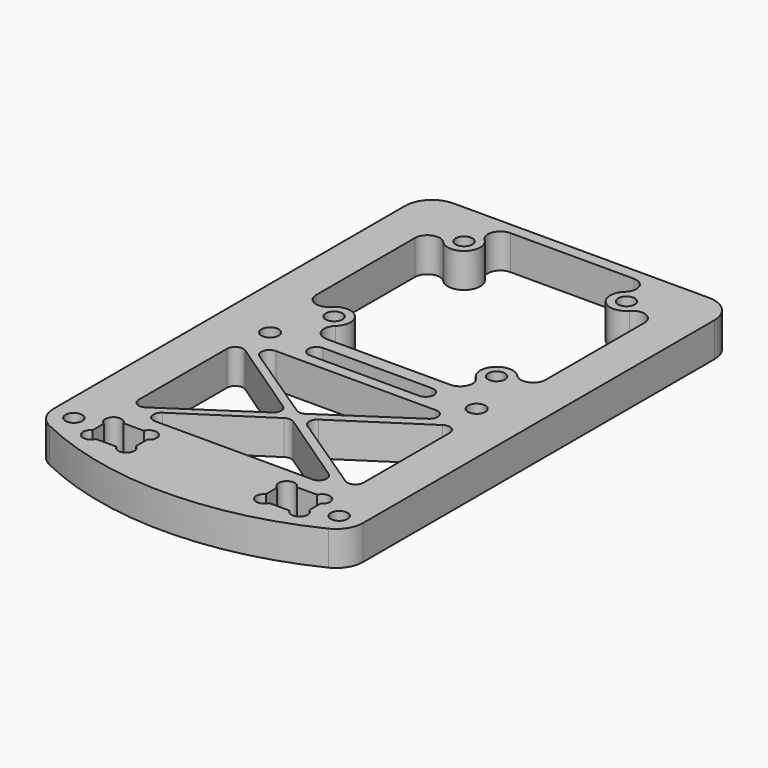
from build123d import *

# Parameters (mm, degrees)
F0_R     = 1.55
F0_W     = 8
F0_H     = 6.35
F0_R_2   = 1.6
F1_DEPTH = 6.35
F3_DEPTH = 25
F4_R     = 1.5
F6_DEPTH = 25


with BuildPart() as f1:
    # F0 (on Top) → F1 (new body)
    with BuildSketch(Plane.XY):
        with BuildLine():
            ThreePointArc((28.575, 42.02), (27.1105339059, 45.5555339059), (23.575, 47.02))
            Line((23.575, 47.02), (-23.575, 47.02))
            ThreePointArc((-23.575, 47.02), (-27.1105339059, 45.5555339059), (-28.575, 42.02))
            Line((-28.575, 42.02), (-28.575, -39.0813798373))
            ThreePointArc((-28.575, -39.0813798373), (-27.8126666433, -41.7350907147), (-25.7581274318, -43.5795966636))
            ThreePointArc((-25.7581274318, -43.5795966636), (0, -49.5), (25.7581274318, -43.5795966636))
            ThreePointArc((25.7581274318, -43.5795966636), (27.8126666433, -41.7350907147), (28.575, -39.0813798373))
            Line((28.575, -39.0813798373), (28.575, 42.02))
        make_face()
        with Locations((-24.5, -39.5)):
            Circle(F0_R, mode=Mode.SUBTRACT)
        with Locations((-16, -39.5)):
            Rectangle(F0_W, F0_H, mode=Mode.SUBTRACT)
        with Locations((16, -39.5)):
            Rectangle(F0_W, F0_H, mode=Mode.SUBTRACT)
        with Locations((24.5, -39.5)):
            Circle(F0_R, mode=Mode.SUBTRACT)
        with BuildLine():
            ThreePointArc((10.075, 0), (11.575, -1.5), (10.075, -3))
            Line((10.075, -3), (0, -3))
            Line((0, -3), (-10.075, -3))
            ThreePointArc((-10.075, -3), (-11.575, -1.5), (-10.075, 0))
            Line((-10.075, 0), (0, 0))
            Line((0, 0), (10.075, 0))
        make_face(mode=Mode.SUBTRACT)
        with Locations((-19.075, -0.98)):
            Circle(F0_R_2, mode=Mode.SUBTRACT)
        with Locations((-15, 8.7)):
            Circle(F0_R, mode=Mode.SUBTRACT)
        with Locations((-15, 38.7)):
            Circle(F0_R, mode=Mode.SUBTRACT)
        with Locations((19.075, -0.98)):
            Circle(F0_R_2, mode=Mode.SUBTRACT)
        with Locations((15, 8.7)):
            Circle(F0_R, mode=Mode.SUBTRACT)
        with BuildLine():
            Line((-11.411128311, 44.9), (0, 44.9))
            Line((0, 44.9), (11.411128311, 44.9))
            ThreePointArc((11.411128311, 44.9), (13.5538650552, 43.435870352), (12.9685631949, 40.9075471698))
            ThreePointArc((12.9685631949, 40.9075471698), (12.8786796564, 36.5786796564), (17.2075471698, 36.6685631949))
            ThreePointArc((17.2075471698, 36.6685631949), (19.735870352, 37.2538650552), (21.2, 35.111128311))
            Line((21.2, 35.111128311), (21.2, 23.7))
            Line((21.2, 23.7), (21.2, 12.288871689))
            ThreePointArc((21.2, 12.288871689), (19.735870352, 10.1461349448), (17.2075471698, 10.7314368051))
            ThreePointArc((17.2075471698, 10.7314368051), (12.8786796564, 10.8213203436), (12.9685631949, 6.4924528302))
            ThreePointArc((12.9685631949, 6.4924528302), (13.5538650552, 3.964129648), (11.411128311, 2.5))
            Line((11.411128311, 2.5), (0, 2.5))
            Line((0, 2.5), (-11.411128311, 2.5))
            ThreePointArc((-11.411128311, 2.5), (-13.5538650552, 3.964129648), (-12.9685631949, 6.4924528302))
            ThreePointArc((-12.9685631949, 6.4924528302), (-12.8786796564, 10.8213203436), (-17.2075471698, 10.7314368051))
            ThreePointArc((-17.2075471698, 10.7314368051), (-19.735870352, 10.1461349448), (-21.2, 12.288871689))
            Line((-21.2, 12.288871689), (-21.2, 23.7))
            Line((-21.2, 23.7), (-21.2, 35.111128311))
            ThreePointArc((-21.2, 35.111128311), (-19.735870352, 37.2538650552), (-17.2075471698, 36.6685631949))
            ThreePointArc((-17.2075471698, 36.6685631949), (-12.8786796564, 36.5786796564), (-12.9685631949, 40.9075471698))
            ThreePointArc((-12.9685631949, 40.9075471698), (-13.5538650552, 43.435870352), (-11.411128311, 44.9))
        make_face(mode=Mode.SUBTRACT)
        with Locations((15, 38.7)):
            Circle(F0_R, mode=Mode.SUBTRACT)
    extrude(amount=F1_DEPTH)

    # F2 (on face) → F3 (cut)
    with BuildSketch(Plane.XY.offset(6.35)):
        Polygon((-20.75, -32), (-1.3711180124, -19.0807453416), (-20.75, -6), align=None)
        Polygon((0, -18.1666666667), (19.75, -5), (-19.75, -5), align=None)
        Polygon((20.75, -32), (20.75, -6.5), (1.4462616822, -19.1308411215), align=None)
        Polygon((19.25, -33), (0.0533433945, -20.0422567913), (-19.75, -33), align=None)
    extrude(amount=-F3_DEPTH, mode=Mode.SUBTRACT)

    # F4
    f4_edges = [f1.edges().sort_by_distance(p)[0] for p in [
        (-20.75, -6, 3.175),
        (-20.75, -32, 3.175),
        (-19.75, -5, 3.175),
        (19.75, -5, 3.175),
        (20.75, -6.5, 3.175),
        (20.75, -32, 3.175),
        (19.25, -33, 3.175),
        (-19.75, -33, 3.175),
        (0.053343, -20.042257, 3.175),
        (1.446262, -19.130841, 3.175),
        (0, -18.166667, 3.175),
        (-1.371118, -19.080745, 3.175),
    ]]
    fillet(f4_edges, radius=F4_R)

    # F5 (on face) → F6 (cut)
    with BuildSketch(Plane(origin=(0, 0, 0), x_dir=(1, 0, 0), z_dir=(0, 0, -1))):
        with BuildLine():
            Line((-12, 36.325), (-14.1268090018, 36.325))
            ThreePointArc((-14.1268090018, 36.325), (-12.4460374222, 35.4514330797), (-11.25, 36.9203125))
            ThreePointArc((-11.25, 36.9203125), (-11.4509618943, 37.6703125), (-12, 38.2193506057))
            Line((-12, 38.2193506057), (-12, 36.325))
        make_face()
        with BuildLine():
            ThreePointArc((-11.25, 42.0796875), (-12.4460374222, 43.5485669203), (-14.1268090018, 42.675))
            Line((-14.1268090018, 42.675), (-12, 42.675))
            Line((-12, 42.675), (-12, 40.7806493943))
            ThreePointArc((-12, 40.7806493943), (-11.4509618943, 41.3296875), (-11.25, 42.0796875))
        make_face()
        with BuildLine():
            ThreePointArc((-17.8731909982, 42.675), (-20.2476790243, 43.1997931042), (-20, 40.7806493943))
            Line((-20, 40.7806493943), (-20, 42.675))
            Line((-20, 42.675), (-17.8731909982, 42.675))
        make_face()
        with BuildLine():
            Line((-20, 36.325), (-20, 38.2193506057))
            ThreePointArc((-20, 38.2193506057), (-20.2476790243, 35.8002068958), (-17.8731909982, 36.325))
            Line((-17.8731909982, 36.325), (-20, 36.325))
        make_face()
        with BuildLine():
            Line((12, 36.325), (12, 38.2193506057))
            ThreePointArc((12, 38.2193506057), (11.7523209757, 35.8002068958), (14.1268090018, 36.325))
            Line((14.1268090018, 36.325), (12, 36.325))
        make_face()
        with BuildLine():
            ThreePointArc((14.1268090018, 42.675), (11.7523209757, 43.1997931042), (12, 40.7806493943))
            Line((12, 40.7806493943), (12, 42.675))
            Line((12, 42.675), (14.1268090018, 42.675))
        make_face()
        with BuildLine():
            ThreePointArc((20.75, 42.0796875), (19.5539625778, 43.5485669203), (17.8731909982, 42.675))
            Line((17.8731909982, 42.675), (20, 42.675))
            Line((20, 42.675), (20, 40.7806493943))
            ThreePointArc((20, 40.7806493943), (20.5490381057, 41.3296875), (20.75, 42.0796875))
        make_face()
        with BuildLine():
            Line((20, 36.325), (17.8731909982, 36.325))
            ThreePointArc((17.8731909982, 36.325), (19.5539625778, 35.4514330797), (20.75, 36.9203125))
            ThreePointArc((20.75, 36.9203125), (20.5490381057, 37.6703125), (20, 38.2193506057))
            Line((20, 38.2193506057), (20, 36.325))
        make_face()
    extrude(amount=-F6_DEPTH, mode=Mode.SUBTRACT)


solid = f1.part
